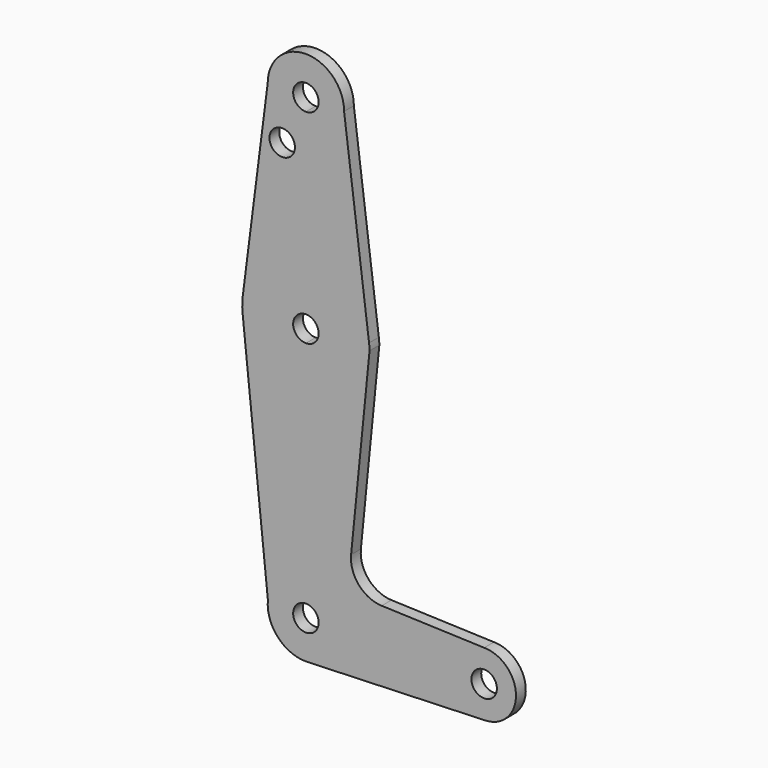
from build123d import *

# Parameters (mm, degrees)
F0_R     = 3.175
F1_DEPTH = 3.048


with BuildPart() as f1:
    # F0 (on Front) → F1 (new body)
    with BuildSketch(Plane.XZ):
        with BuildLine():
            Line((-9.525, 114.3), (-15.7474569047, 65.5082893304))
            ThreePointArc((-15.7474569047, 65.5082893304), (-10.4912828548, 75.4142187767), (0, 79.375))
            Line((0, 79.375), (0, 104.775))
            ThreePointArc((0, 104.775), (-6.7351920908, 107.5648079092), (-9.525, 114.3))
        make_face()
        with Locations((-5.9075579047, 102.4370640516)):
            Circle(F0_R, mode=Mode.SUBTRACT)
        with BuildLine():
            Line((0, 104.775), (0, 79.375))
            ThreePointArc((0, 79.375), (10.4912828548, 75.4142187767), (15.7474569047, 65.5082893304))
            Line((15.7474569047, 65.5082893304), (9.525, 114.3))
            ThreePointArc((9.525, 114.3), (6.7351920908, 107.5648079092), (0, 104.775))
        make_face()
        with BuildLine():
            ThreePointArc((9.525, 114.3), (0, 123.825), (-9.525, 114.3))
            ThreePointArc((-9.525, 114.3), (-6.7351920908, 107.5648079092), (0, 104.775))
            ThreePointArc((0, 104.775), (6.7351920908, 107.5648079092), (9.525, 114.3))
        make_face()
        with BuildLine():
            ThreePointArc((3.175, 114.3), (2.2450640303, 112.0549359697), (0, 111.125))
            ThreePointArc((0, 111.125), (-2.2450640303, 116.5450640303), (3.175, 114.3))
        make_face(mode=Mode.SUBTRACT)
        with BuildLine():
            ThreePointArc((-15.7906170127, 61.8653626218), (-10.6316921659, 51.7109056035), (0, 47.625))
            Line((0, 47.625), (0, 60.325))
            ThreePointArc((0, 60.325), (-3.175, 63.5), (0, 66.675))
            Line((0, 66.675), (0, 79.375))
            ThreePointArc((0, 79.375), (-10.4912828548, 75.4142187767), (-15.7474569047, 65.5082893304))
            ThreePointArc((-15.7474569047, 65.5082893304), (-15.8738859564, 63.6880681899), (-15.7906170127, 61.8653626218))
        make_face()
        with BuildLine():
            Line((0, 60.325), (0, 47.625))
            ThreePointArc((0, 47.625), (9.932534297, 51.1161238928), (15.4964754853, 60.0540063069))
            Line((15.4964754853, 60.0540063069), (15.8716337995, 63.8269029424))
            ThreePointArc((15.8716337995, 63.8269029424), (15.8318820513, 64.6692457881), (15.7474569047, 65.5082893304))
            ThreePointArc((15.7474569047, 65.5082893304), (10.4912828548, 75.4142187767), (0, 79.375))
            Line((0, 79.375), (0, 66.675))
            ThreePointArc((0, 66.675), (2.2450640303, 65.7450640303), (3.175, 63.5))
            ThreePointArc((3.175, 63.5), (2.2450640303, 61.2549359697), (0, 60.325))
        make_face()
        with BuildLine():
            ThreePointArc((-9.4810044636, 0.9144284343), (-6.4037369622, 7.0510834571), (0, 9.525))
            Line((0, 9.525), (0, 47.625))
            ThreePointArc((0, 47.625), (-10.6316921659, 51.7109056035), (-15.7906170127, 61.8653626218))
            Line((-15.7906170127, 61.8653626218), (-9.4810044636, 0.9144284343))
        make_face()
        with BuildLine():
            Line((36.5125, 0), (9.525, 0))
            ThreePointArc((9.525, 0), (6.9705567315, -6.4912990883), (0.6773435479, -9.500885786))
            Line((0.6773435479, -9.500885786), (44.7324052746, -7.9324746146))
            ThreePointArc((44.7324052746, -7.9324746146), (38.9380895153, -5.7116327839), (36.5125, 0))
        make_face()
        with BuildLine():
            ThreePointArc((3.175, 0), (-2.2450640303, -2.2450640303), (0, 3.175))
            Line((0, 3.175), (0, 9.525))
            ThreePointArc((0, 9.525), (-6.4037369622, 7.0510834571), (-9.4810044636, 0.9144284343))
            ThreePointArc((-9.4810044636, 0.9144284343), (-7.0510834571, -6.4037369622), (0, -9.525))
            Line((0, -9.525), (0.6773435479, -9.500885786))
            ThreePointArc((0.6773435479, -9.500885786), (6.9705567315, -6.4912990883), (9.525, 0))
            Line((9.525, 0), (3.175, 0))
        make_face()
        with BuildLine():
            Line((0, 9.525), (0, 3.175))
            ThreePointArc((0, 3.175), (2.2450640303, 2.2450640303), (3.175, 0))
            Line((3.175, 0), (9.525, 0))
            ThreePointArc((9.525, 0), (6.7351920908, 6.7351920908), (0, 9.525))
        make_face()
        with BuildLine():
            ThreePointArc((44.45, 7.9375), (38.8373399243, 5.6126600757), (36.5125, 0))
            ThreePointArc((36.5125, 0), (38.9380895153, -5.7116327839), (44.7324052746, -7.9324746146))
            ThreePointArc((44.7324052746, -7.9324746146), (50.1616327839, -5.5119104847), (52.3875, 0))
            ThreePointArc((52.3875, 0), (50.0626600757, 5.6126600757), (44.45, 7.9375))
        make_face()
        with BuildLine():
            ThreePointArc((47.625, 0), (44.45, -3.175), (41.275, 0))
            ThreePointArc((41.275, 0), (44.45, 3.175), (47.625, 0))
        make_face(mode=Mode.SUBTRACT)
        with BuildLine():
            Line((0, 47.625), (0, 9.525))
            ThreePointArc((0, 9.525), (6.7351920908, 6.7351920908), (9.525, 0))
            Line((9.525, 0), (36.5125, 0))
            ThreePointArc((36.5125, 0), (38.8373399243, 5.6126600757), (44.45, 7.9375))
            Line((44.45, 7.9375), (18.9006749836, 8.8499758934))
            ThreePointArc((18.9006749836, 8.8499758934), (13.1969197465, 11.5648711208), (11.273243871, 17.5817599371))
            Line((11.273243871, 17.5817599371), (15.4964754853, 60.0540063069))
            ThreePointArc((15.4964754853, 60.0540063069), (9.932534297, 51.1161238928), (0, 47.625))
        make_face()
    extrude(amount=F1_DEPTH)


solid = f1.part
